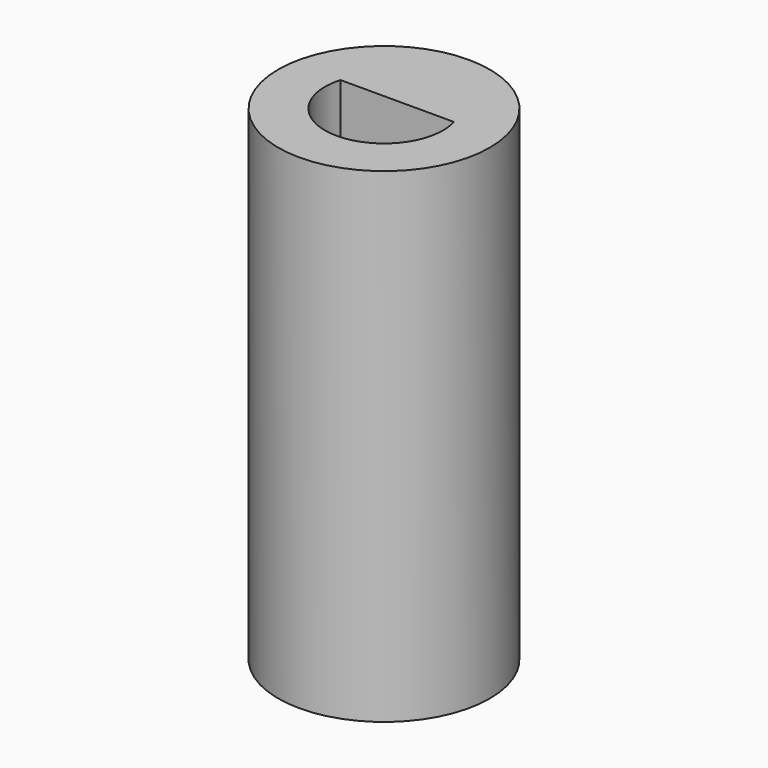
from build123d import *

# Parameters (mm, degrees)
F0_R     = 6
F1_DEPTH = 27.5


with BuildPart() as f1:
    # F0 (on Top) → F1 (new body)
    with BuildSketch(Plane.XY):
        Circle(F0_R)
        with BuildLine():
            ThreePointArc((-3.217142, 0.934077), (-2.962107, 1.564744), (-2.584923, 2.130885))
            ThreePointArc((-2.584923, 2.130885), (0, 3.35), (2.584923, 2.130885))
            ThreePointArc((2.584923, 2.130885), (2.962107, 1.564744), (3.217142, 0.934077))
            ThreePointArc((3.217142, 0.934077), (0, -3.35), (-3.217142, 0.934077))
        make_face(mode=Mode.SUBTRACT)
        with BuildLine():
            ThreePointArc((2.584923, 2.130885), (0, 3.35), (-2.584923, 2.130885))
            ThreePointArc((-2.584923, 2.130885), (-2.962107, 1.564744), (-3.217142, 0.934077))
            Line((-3.217142, 0.934077), (0, 0.934077))
            Line((0, 0.934077), (3.217142, 0.934077))
            ThreePointArc((3.217142, 0.934077), (2.962107, 1.564744), (2.584923, 2.130885))
        make_face()
    extrude(amount=F1_DEPTH)


solid = f1.part
